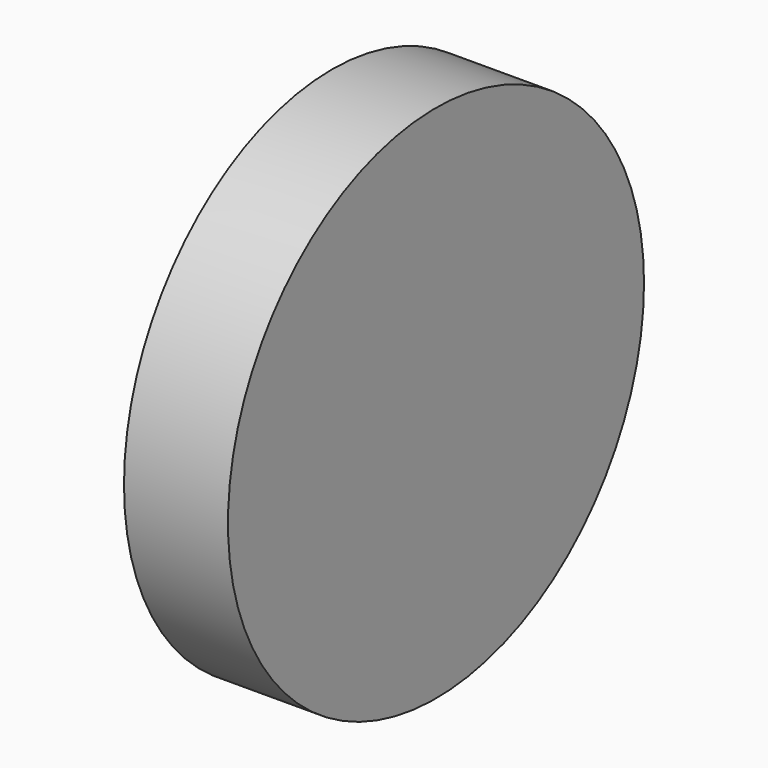
from build123d import *

# Parameters (mm, degrees)
F0_R     = 25
F1_DEPTH = 10


with BuildPart() as f1:
    # F0 (on Right) → F1 (new body)
    with BuildSketch(Plane.YZ):
        Circle(F0_R)
    extrude(amount=F1_DEPTH)

    # F2 (on Top) → F3 (revolve)
    with BuildSketch(Plane.XY):
        with BuildLine():
            Line((0, -25), (0, 0))
            Line((0, 0), (-3, 0))
            ThreePointArc((-3, 0), (-2.247319, -12.589678), (0, -25))
        make_face()
    revolve(axis=Axis((-1.5, 0, 0), (-1, 0, 0)))


solid = f1.part
